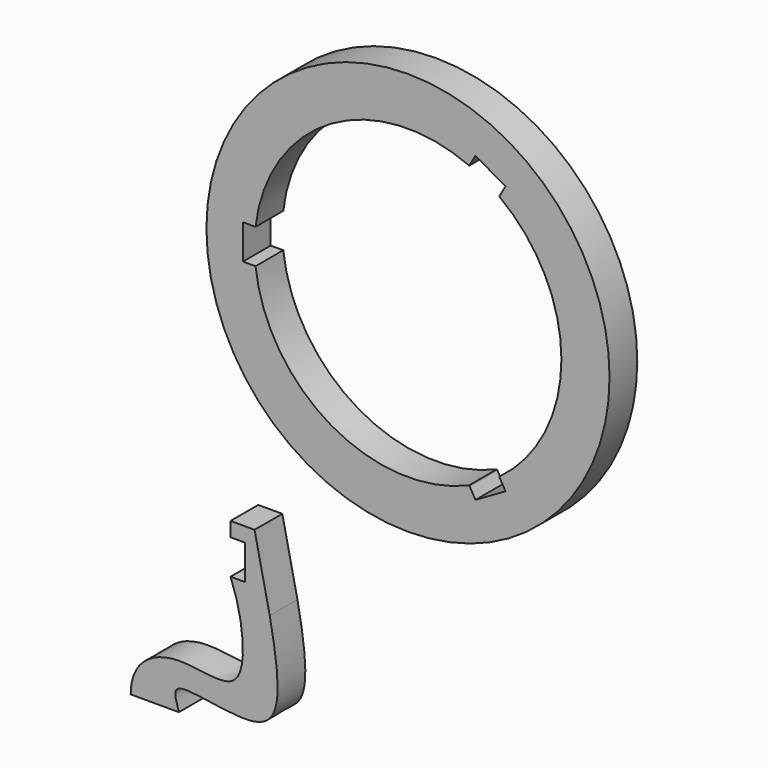
from build123d import *

# Parameters (mm, degrees)
F0_R     = 106.3625
F1_DEPTH = 18.288


with BuildPart() as f1:
    # F0 (on Front) → F1 (new body)
    with BuildSketch(Plane.XZ):
        with Locations((80.9625, 131.7625)):
            Circle(F0_R)
        with BuildLine():
            ThreePointArc((129.103674141, 196.8574595482), (153.255501797, 168.2131282172), (161.925, 131.7625))
            ThreePointArc((161.925, 131.7625), (153.255501797, 95.3118717828), (129.103674141, 66.6675404518))
            Line((129.103674141, 66.6675404518), (129.3626862922, 66.2189182461))
            Line((129.3626862922, 66.2189182461), (132.4106862922, 60.9396273846))
            Line((132.4106862922, 60.9396273846), (116.5728137078, 51.7956273846))
            Line((116.5728137078, 51.7956273846), (113.5248137078, 57.0749182461))
            Line((113.5248137078, 57.0749182461), (113.2658015566, 57.5235404518))
            ThreePointArc((113.2658015566, 57.5235404518), (40.48125, 61.6469182461), (0.5180243025, 122.6185))
            Line((0.5180243025, 122.6185), (0, 122.6185))
            Line((0, 122.6185), (-6.096, 122.6185))
            Line((-6.096, 122.6185), (-6.096, 140.9065))
            Line((-6.096, 140.9065), (0, 140.9065))
            Line((0, 140.9065), (0.5180243025, 140.9065))
            ThreePointArc((0.5180243025, 140.9065), (40.48125, 201.8780817539), (113.2658015566, 206.0014595482))
            Line((113.2658015566, 206.0014595482), (113.5248137078, 206.4500817539))
            Line((113.5248137078, 206.4500817539), (116.5728137078, 211.7293726154))
            Line((116.5728137078, 211.7293726154), (132.4106862922, 202.5853726154))
            Line((132.4106862922, 202.5853726154), (129.3626862922, 197.3060817539))
            Line((129.3626862922, 197.3060817539), (129.103674141, 196.8574595482))
        make_face(mode=Mode.SUBTRACT)
    extrude(amount=F1_DEPTH)


with BuildPart() as f1b:
    # F0 (on Front) → F1, piece 2 (new body)
    with BuildSketch(Plane.XZ):
        with BuildLine():
            Line((8, -37.2506375784), (0, 0))
            Line((0, 0), (-12.7, 0))
            Line((-12.7, 0), (-12.7, -7.62))
            Line((-12.7, -7.62), (-5.08, -7.62))
            Line((-5.08, -7.62), (-5.08, -25.908))
            Line((-5.08, -25.908), (-12.7, -25.908))
            add(Edge.make_bspline(
                [(-12.7, -25.908), (-6.2093237592, -41.651973211), (-0.4423801748, -85.1890591451), (-42.5650752415, -67.7560872407), (-65.3522448846, -81.3096976825), (-65.3522448846, -97.7317927159)],
                knots=[0, 0, 0, 0, 0.3759879974, 0.6798769586, 1, 1, 1, 1], degree=3))
            Line((-65.3522448846, -97.7317927159), (-39.9522448846, -97.7317927159))
            add(Edge.make_bspline(
                [(-39.9522448846, -97.7317927159), (-41.7322214385, -92.0158930577), (-45.5375410956, -80.5929521895), (13.0032108044, -99.1822132587), (14.8568050724, -72.310776957), (8, -37.2506375784)],
                knots=[0, 0, 0, 0, 0.1961686038, 0.5709524025, 1, 1, 1, 1], degree=3))
        make_face()
    extrude(amount=F1_DEPTH)


solid = Compound([f1.part, f1b.part])
